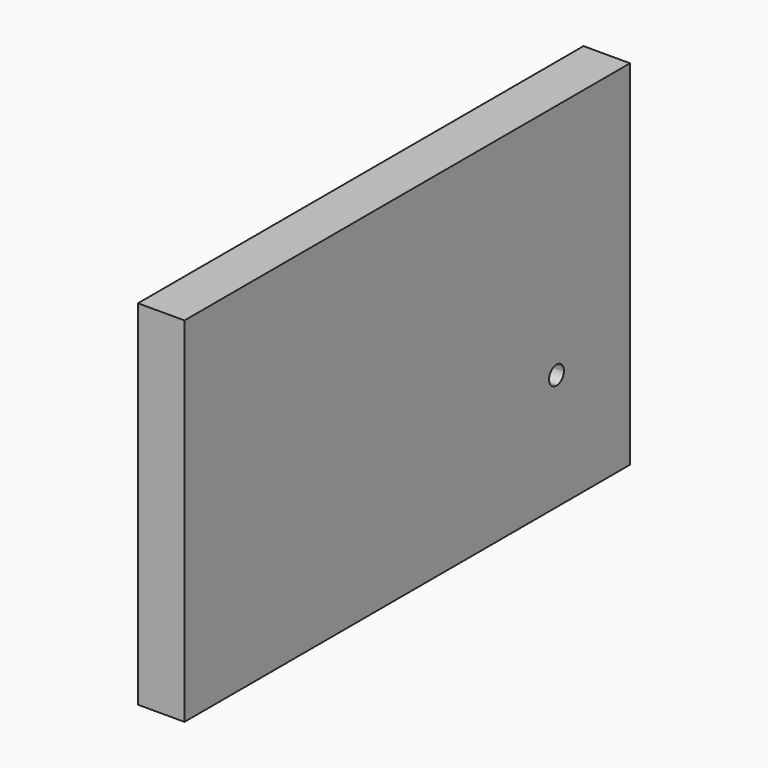
from build123d import *

# Parameters (mm, degrees)
F0_W     = 40.119994
F0_H     = 38
F1_DEPTH = 5


with BuildPart() as f1:
    # F0 (on Right) → F1 (new body)
    with BuildSketch(Plane.YZ):
        with BuildLine():
            Line((15.119994, -19), (25, -19))
            Line((25, -19), (25, -7.5))
            ThreePointArc((25, -7.5), (24, -6.5), (25, -5.5))
            Line((25, -5.5), (25, 0))
            Line((25, 0), (25, 19))
            Line((25, 19), (15.119994, 19))
            Line((15.119994, 19), (15.119994, -19))
        make_face()
        with BuildLine():
            Line((25, -7.5), (25, -19))
            Line((25, -19), (34.880006, -19))
            Line((34.880006, -19), (34.880006, 19))
            Line((34.880006, 19), (25, 19))
            Line((25, 19), (25, 0))
            Line((25, 0), (25, -5.5))
            ThreePointArc((25, -5.5), (25.707107, -5.792893), (26, -6.5))
            ThreePointArc((26, -6.5), (25.707107, -7.207107), (25, -7.5))
        make_face()
        with Locations((-4.940003, 0)):
            Rectangle(F0_W, F0_H)
    extrude(amount=F1_DEPTH)


solid = f1.part
